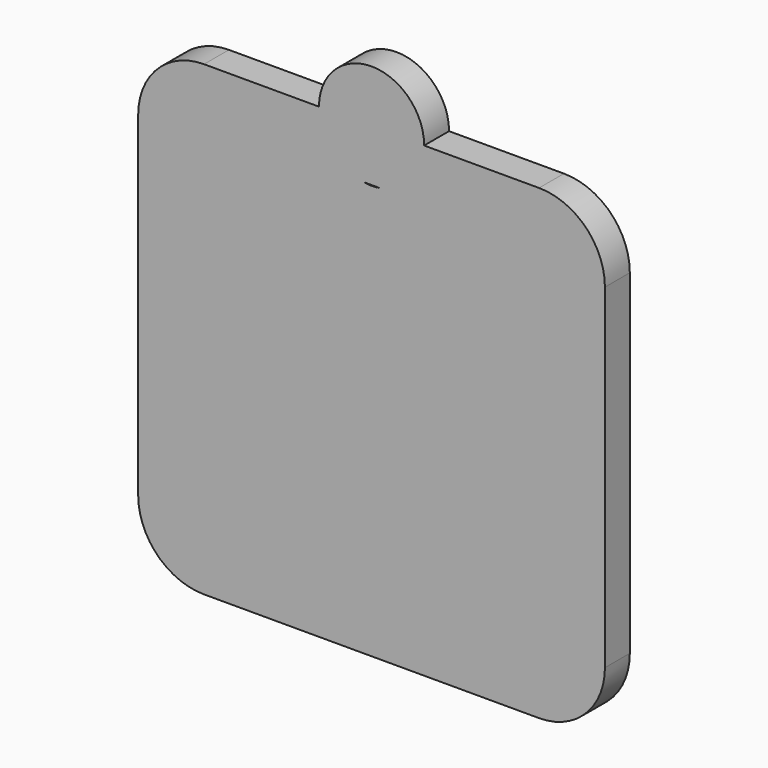
from build123d import *

# Parameters (mm, degrees)
F1_DEPTH = 3
F2_DEPTH = 3


with BuildPart() as f1:
    # F0 (on Front) → F1 (new body)
    with BuildSketch(Plane.XZ):
        with BuildLine():
            ThreePointArc((22.5, 16.15), (20.6401280605, 20.6401280605), (16.15, 22.5))
            Line((16.15, 22.5), (5.071, 22.5))
            ThreePointArc((5.071, 22.5), (3.8731823813, 19.2268517844), (0.8456009697, 17.5))
            Line((0.8456009697, 17.5), (9, 17.5))
            Line((9, 17.5), (9, -17.5))
            Line((9, -17.5), (-9, -17.5))
            Line((-9, -17.5), (-9, 17.5))
            Line((-9, 17.5), (-0.8456009697, 17.5))
            ThreePointArc((-0.8456009697, 17.5), (-3.8731823813, 19.2268517844), (-5.071, 22.5))
            Line((-5.071, 22.5), (-16.15, 22.5))
            ThreePointArc((-16.15, 22.5), (-20.6401280605, 20.6401280605), (-22.5, 16.15))
            Line((-22.5, 16.15), (-22.5, -16.15))
            ThreePointArc((-22.5, -16.15), (-20.6401280605, -20.6401280605), (-16.15, -22.5))
            Line((-16.15, -22.5), (16.15, -22.5))
            ThreePointArc((16.15, -22.5), (20.6401280605, -20.6401280605), (22.5, -16.15))
            Line((22.5, -16.15), (22.5, 16.15))
        make_face()
        with BuildLine():
            Line((-5.071, 22.5), (5.071, 22.5))
            ThreePointArc((5.071, 22.5), (0, 27.571), (-5.071, 22.5))
        make_face()
        with BuildLine():
            ThreePointArc((0.8456009697, 17.5), (3.8731823813, 19.2268517844), (5.071, 22.5))
            Line((5.071, 22.5), (-5.071, 22.5))
            ThreePointArc((-5.071, 22.5), (-3.8731823813, 19.2268517844), (-0.8456009697, 17.5))
            Line((-0.8456009697, 17.5), (0.8456009697, 17.5))
        make_face()
    extrude(amount=F1_DEPTH)

    # F0 (on Front) → F2 (join)
    with BuildSketch(Plane.XZ):
        with BuildLine():
            ThreePointArc((0.8456009697, 17.5), (3.8731823813, 19.2268517844), (5.071, 22.5))
            Line((5.071, 22.5), (-5.071, 22.5))
            ThreePointArc((-5.071, 22.5), (-3.8731823813, 19.2268517844), (-0.8456009697, 17.5))
            Line((-0.8456009697, 17.5), (0.8456009697, 17.5))
        make_face()
        with BuildLine():
            ThreePointArc((22.5, 16.15), (20.6401280605, 20.6401280605), (16.15, 22.5))
            Line((16.15, 22.5), (5.071, 22.5))
            ThreePointArc((5.071, 22.5), (3.8731823813, 19.2268517844), (0.8456009697, 17.5))
            Line((0.8456009697, 17.5), (9, 17.5))
            Line((9, 17.5), (9, -17.5))
            Line((9, -17.5), (-9, -17.5))
            Line((-9, -17.5), (-9, 17.5))
            Line((-9, 17.5), (-0.8456009697, 17.5))
            ThreePointArc((-0.8456009697, 17.5), (-3.8731823813, 19.2268517844), (-5.071, 22.5))
            Line((-5.071, 22.5), (-16.15, 22.5))
            ThreePointArc((-16.15, 22.5), (-20.6401280605, 20.6401280605), (-22.5, 16.15))
            Line((-22.5, 16.15), (-22.5, -16.15))
            ThreePointArc((-22.5, -16.15), (-20.6401280605, -20.6401280605), (-16.15, -22.5))
            Line((-16.15, -22.5), (16.15, -22.5))
            ThreePointArc((16.15, -22.5), (20.6401280605, -20.6401280605), (22.5, -16.15))
            Line((22.5, -16.15), (22.5, 16.15))
        make_face()
        with BuildLine():
            Line((9, 17.5), (0.8456009697, 17.5))
            ThreePointArc((0.8456009697, 17.5), (0, 17.429), (-0.8456009697, 17.5))
            Line((-0.8456009697, 17.5), (-9, 17.5))
            Line((-9, 17.5), (-9, -17.5))
            Line((-9, -17.5), (9, -17.5))
            Line((9, -17.5), (9, 17.5))
        make_face()
        with BuildLine():
            Line((-5.071, 22.5), (5.071, 22.5))
            ThreePointArc((5.071, 22.5), (0, 27.571), (-5.071, 22.5))
        make_face()
    extrude(amount=F2_DEPTH)


solid = f1.part
